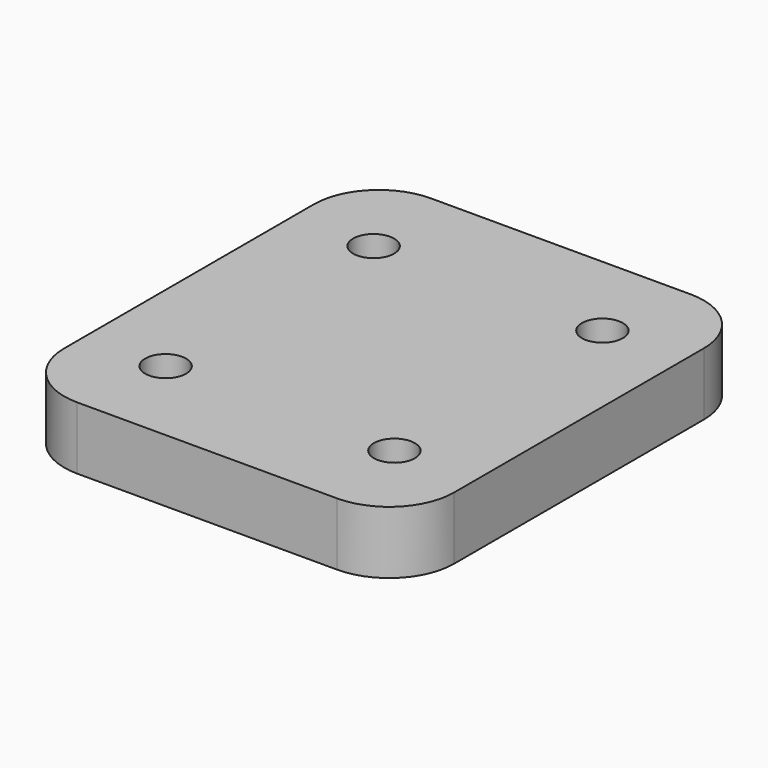
from build123d import *

# Parameters (mm, degrees)
F0_W     = 30
F0_H     = 34
F0_R     = 1.575
F1_DEPTH = 4.826
F2_R     = 5


with BuildPart() as f1:
    # F0 (on Top) → F1 (new body)
    with BuildSketch(Plane.XY):
        Rectangle(F0_W, F0_H)
        with Locations((-8.8, -10)):
            Circle(F0_R, mode=Mode.SUBTRACT)
        with Locations((8.8, -10)):
            Circle(F0_R, mode=Mode.SUBTRACT)
        with Locations((-8.8, 10)):
            Circle(F0_R, mode=Mode.SUBTRACT)
        with Locations((8.8, 10)):
            Circle(F0_R, mode=Mode.SUBTRACT)
    extrude(amount=F1_DEPTH)

    # F2
    f2_edges = [f1.edges().sort_by_distance(p)[0] for p in [
        (-15, -17, 2.413),
        (15, -17, 2.413),
        (-15, 17, 2.413),
        (15, 17, 2.413),
    ]]
    fillet(f2_edges, radius=F2_R)


solid = f1.part
